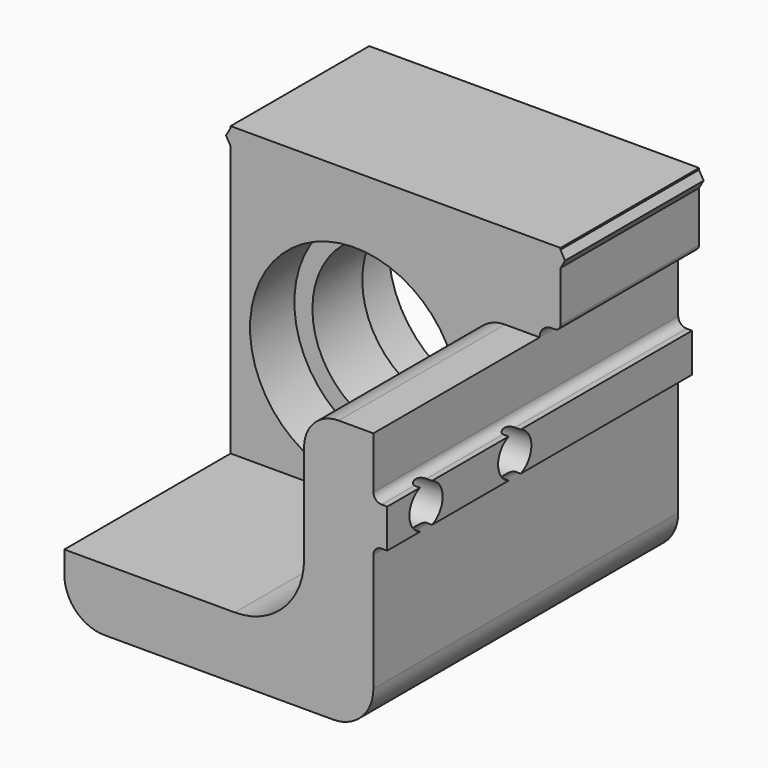
from build123d import *

# Parameters (mm, degrees)
F1_DEPTH  = 55
F3_DEPTH  = 30
F4_R      = 3
F5_DEPTH  = 25
F6_R      = 12.5
F7_DEPTH  = 25
F8_R      = 15.1
F9_DEPTH  = 38
F10_R     = 15.1
F11_DEPTH = 8
F12_R     = 6.5
F13_DEPTH = 17
F14_R     = 10


with BuildPart() as f1:
    # F0 (on Front) → F1 (new body)
    with BuildSketch(Plane.XZ):
        with BuildLine():
            Line((-23.699999, 23.799999), (-23.699999, 23.558845))
            Line((-23.699999, 23.558845), (-24.369059, 22.399999))
            Line((-24.369059, 22.399999), (-23.699999, 21.241153))
            Line((-23.699999, 21.241153), (-23.699999, -21.000001))
            ThreePointArc((-23.699999, -21.000001), (-22.001218, -25.10122), (-17.899999, -26.8))
            Line((-17.899999, -26.8), (15.100001, -26.8))
            ThreePointArc((15.100001, -26.8), (19.20122, -25.10122), (20.9, -21.000001))
            Line((20.9, -21.000001), (20.9, -4.000001))
            ThreePointArc((20.9, -4.000001), (21.251472, -3.151472), (22.100001, -2.8))
            Line((22.100001, -2.8), (22.9, -2.8))
            Line((22.9, -2.8), (22.9, 2.799999))
            Line((22.9, 2.799999), (22.100001, 2.799999))
            ThreePointArc((22.100001, 2.799999), (21.251472, 3.151471), (20.9, 3.999999))
            Line((20.9, 3.999999), (20.9, 11.499999))
            ThreePointArc((20.9, 11.499999), (21.397919, 12.702081), (22.600001, 13.2))
            Line((22.600001, 13.2), (23.100001, 13.2))
            ThreePointArc((23.100001, 13.2), (23.665686, 13.434314), (23.9, 13.999999))
            Line((23.9, 13.999999), (23.9, 21.241153))
            Line((23.9, 21.241153), (24.56906, 22.399999))
            Line((24.56906, 22.399999), (23.9, 23.558845))
            Line((23.9, 23.558845), (23.9, 23.799999))
            Line((23.9, 23.799999), (-23.699999, 23.799999))
        make_face()
    extrude(amount=F1_DEPTH)

    # F2 (on face) → F3 (cut)
    with BuildSketch(Plane.XZ.offset(55)):
        with BuildLine():
            Line((15.9, 11.457851), (26.682628, 11.457851))
            Line((26.682628, 11.457851), (26.682628, 26.709846))
            Line((26.682628, 26.709846), (-26.825872, 26.709846))
            Line((-26.825872, 26.709846), (-26.825872, -17.8))
            Line((-26.825872, -17.8), (5.9, -17.8))
            Line((5.9, -17.8), (10.9, -17.8))
            Line((10.9, -17.8), (10.9, -11.8))
            Line((10.9, -11.8), (10.9, 6.457851))
            ThreePointArc((10.9, 6.457851), (12.364466, 9.993385), (15.9, 11.457851))
        make_face()
    extrude(amount=-F3_DEPTH, mode=Mode.SUBTRACT)

    # F4 (on face) → F5 (cut)
    with BuildSketch(Plane.YZ.offset(22.9)):
        with Locations((-48, -1e-06)):
            Circle(F4_R)
        with Locations((-32, -1e-06)):
            Circle(F4_R)
    extrude(amount=-F5_DEPTH, mode=Mode.SUBTRACT)

    # F6 (on face) → F7 (cut, through all)
    with BuildSketch(Plane(origin=(0, 0, 0), x_dir=(-1, 0, 0), z_dir=(0, 1, 0))):
        with Locations((5.799999, -0.9)):
            Circle(F6_R)
    extrude(amount=-F7_DEPTH, mode=Mode.SUBTRACT)

    # F8 (on face) → F9 (cut)
    with BuildSketch(Plane.XZ.offset(55)):
        with Locations((-5.799999, -0.9)):
            Circle(F8_R)
    extrude(amount=-F9_DEPTH, mode=Mode.SUBTRACT)

    # F10 (on face) → F11 (cut)
    with BuildSketch(Plane(origin=(0, 0, 0), x_dir=(-1, 0, 0), z_dir=(0, 1, 0))):
        with Locations((5.799999, -0.9)):
            Circle(F10_R)
    extrude(amount=-F11_DEPTH, mode=Mode.SUBTRACT)

    # F12 (on Right) → F13 (cut)
    with BuildSketch(Plane.YZ):
        with Locations((-32, 0)):
            Circle(F12_R)
        with Locations((-48, 0)):
            Circle(F12_R)
    extrude(amount=F13_DEPTH, mode=Mode.SUBTRACT)

    # F14
    f14_edges = [f1.edges().sort_by_distance(p)[0] for p in [
        (10.9, -40, -17.8),
    ]]
    fillet(f14_edges, radius=F14_R)


solid = f1.part
